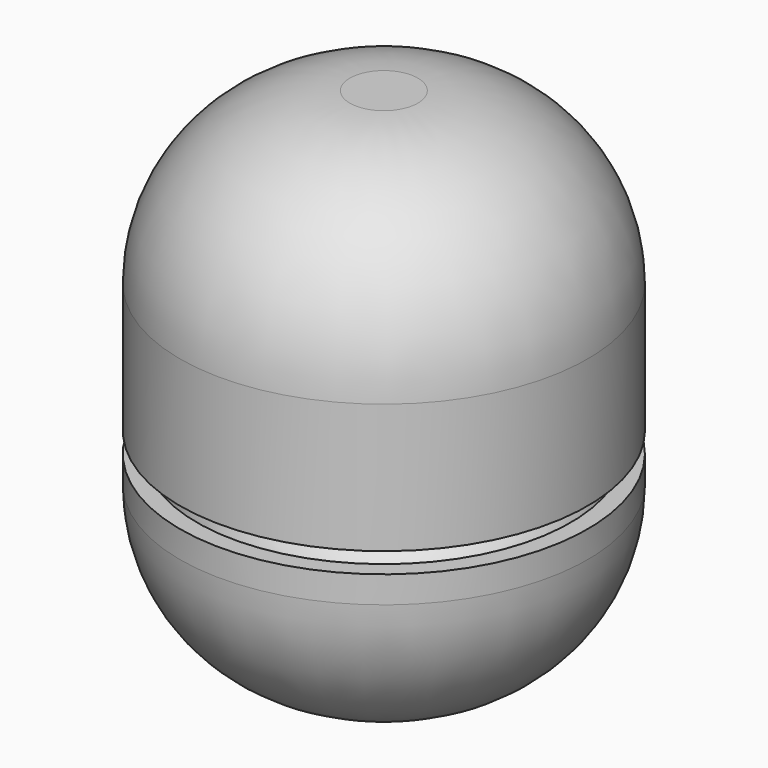
from build123d import *

# Parameters (mm, degrees)
F2_R = 25
F4_R = 25


with BuildPart() as f1:
    # F0 (on Front) → F1 (revolve)
    with BuildSketch(Plane.XZ):
        with BuildLine():
            add(Edge.make_bspline(
                [(0, 46.4285731532), (-3.0336884151, 45.9533913125), (-9.1381169075, 44.9972240434), (-16.5640476024, 38.5549685221), (-21.0945764733, 32.5762312221), (-25.5314789576, 23.4325014201), (-27.6966039196, 13.5804920532), (-27.8186964321, 8.5749305692), (-27.6943262747, 5.6445129926), (-27.6820895485, 5.3903263004)],
                knots=[0, 0, 0, 0, 0.0921033363, 0.1853315678, 0.26896937, 0.3657380818, 0.4619401399, 0.5449713841, 0.5527497038, 0.5527497038, 0.5527497038, 0.5527497038], degree=3))
            Line((0, 46.4285731532), (0, 49.4285731532))
            Line((0, 49.4285731532), (-30, 49.4285731532))
            Line((-30, 49.4285731532), (-30, 48.2053891704))
            Line((-30, 48.2053891704), (-30, 5.3903263004))
            Line((-30, 5.3903263004), (-27.6820895485, 5.3903263004))
        make_face()
    revolve(axis=Axis((0, 0, 11.4285731532), (0, 0, -1)))

    # F2
    f2_edges = [f1.edges().sort_by_distance(p)[0] for p in [
        (30, 0, 49.428573),
    ]]
    fillet(f2_edges, radius=F2_R)


with BuildPart() as f3:
    # F0 (on Front) → F3 (revolve)
    with BuildSketch(Plane.XZ):
        with BuildLine():
            Line((0, -26.5714268468), (0, -23.5714268468))
            add(Edge.make_bspline(
                [(-27.4619179855, 2.3903263004), (-27.2504196955, 0.3136378959), (-26.3363530154, -5.2083679716), (-22.3000712492, -12.4612826037), (-16.369632818, -18.1055645784), (-6.7910940675, -23.3511123408), (-2.0799186612, -23.5039507895), (0, -23.5714268468)],
                knots=[0.5822227079, 0.5822227079, 0.5822227079, 0.5822227079, 0.6417594677, 0.7347703368, 0.8224286932, 0.9216047286, 1, 1, 1, 1], degree=3))
            Line((-27.4619179855, 2.3903263004), (-30, 2.3903263004))
            Line((-30, 2.3903263004), (-30, -21.7946108296))
            Line((-30, -21.7946108296), (-30, -26.5714268468))
            Line((-30, -26.5714268468), (0, -26.5714268468))
        make_face()
    revolve(axis=Axis((0, 0, 11.4285731532), (0, 0, -1)))

    # F4
    f4_edges = [f3.edges().sort_by_distance(p)[0] for p in [
        (30, 0, -26.571427),
    ]]
    fillet(f4_edges, radius=F4_R)


solid = Compound([f1.part, f3.part])
